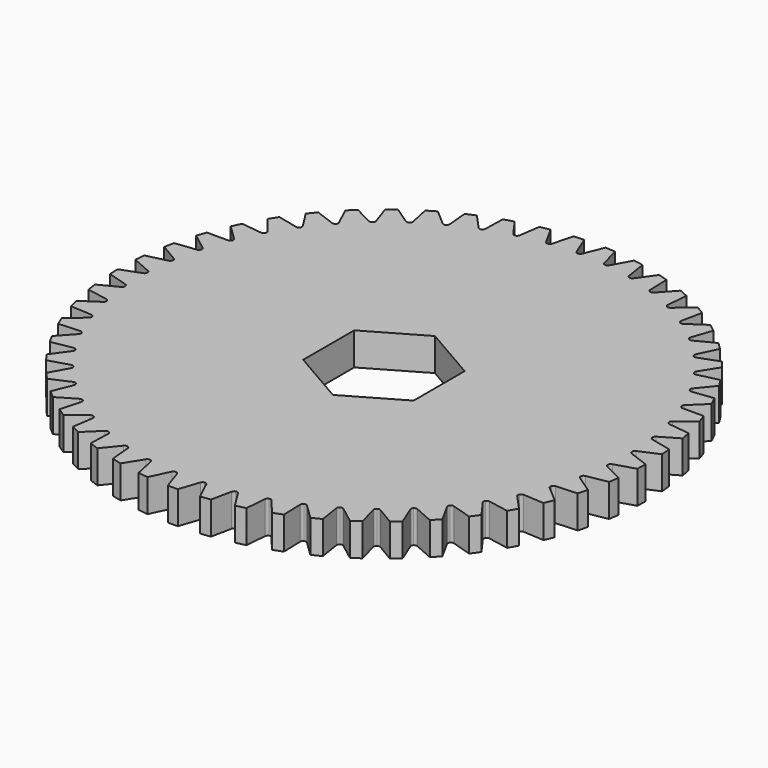
from build123d import *

# Parameters (mm, degrees)
F0_R     = 26.2827020695
F1_DEPTH = 3.2512
F3_DEPTH = 3.2512
F4_COUNT = 53
F4_ANGLE = 353.2075471698


with BuildPart() as f1:
    # F0 (on Top) → F1 (new body)
    with BuildSketch(Plane.XY):
        Circle(F0_R)
        Polygon((-5.499261314, 3.175), (0, 6.35), (5.499261314, 3.175), (5.499261314, -3.175), (0, -6.35), (-5.499261314, -3.175), align=None, mode=Mode.SUBTRACT)
    extrude(amount=F1_DEPTH)

    # F2 (on face) → F3 (cut, through all)
    with BuildSketch(Plane.XY.offset(3.2512)):
        with BuildLine():
            ThreePointArc((-0.2758821969, 24.3204807858), (-0.1663910021, 24.1852557389), (0, 24.1343816839))
            Line((0, 24.1343816839), (0, 26.2827020695))
            ThreePointArc((0, 26.2827020695), (-0.5300445911, 26.2773568078), (-1.059873586, 26.261323197))
            Line((-1.059873586, 26.261323197), (-0.2758821969, 24.3204807858))
        make_face()
        with BuildLine():
            Line((0, 26.2827020695), (0, 24.1343816839))
            ThreePointArc((0, 24.1343816839), (0.1663910021, 24.1852557389), (0.2758821969, 24.3204807858))
            Line((0.2758821969, 24.3204807858), (1.059873586, 26.261323197))
            ThreePointArc((1.059873586, 26.261323197), (0.5300445911, 26.2773568078), (0, 26.2827020695))
        make_face()
    f3 = extrude(amount=-F3_DEPTH, mode=Mode.SUBTRACT)

    # F4: F3 ×53 about axis
    f4_axis = Axis((0, 0, 0), (0, 0, -1))
    for i in range(1, F4_COUNT):
        add(f3.rotate(f4_axis, i * F4_ANGLE / (F4_COUNT - 1)), mode=Mode.SUBTRACT)


solid = f1.part
